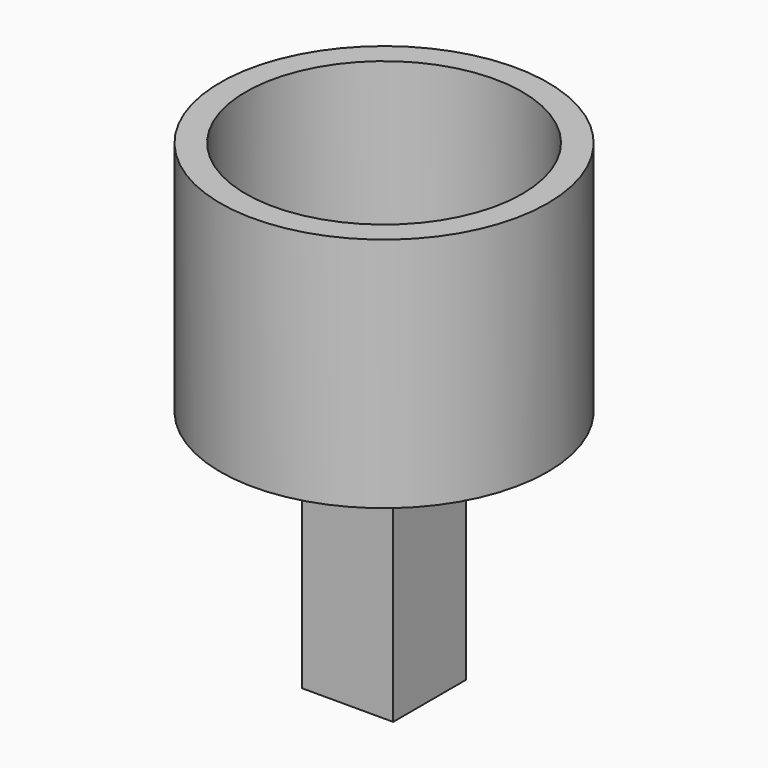
from build123d import *

# Parameters (mm, degrees)
F1_DEPTH = 8.382
F2_R     = 5.715
F3_DEPTH = 8.255
F4_R     = 4.826
F5_DEPTH = 6.35


with BuildPart() as f1:
    # F0 (on Top) → F1 (new body)
    with BuildSketch(Plane.XY):
        Polygon((1.5875, -1.5875), (1.5875, 0), (1.5875, 1.5875), (-1.5875, 1.5875), (-1.5875, -1.5875), align=None)
    extrude(amount=F1_DEPTH)

    # F2 (on face) → F3 (join)
    with BuildSketch(Plane.XY.offset(8.382)):
        Circle(F2_R)
    extrude(amount=F3_DEPTH)

    # F4 (on face) → F5 (cut)
    with BuildSketch(Plane.XY.offset(16.637)):
        Circle(F4_R)
    extrude(amount=-F5_DEPTH, mode=Mode.SUBTRACT)


solid = f1.part
